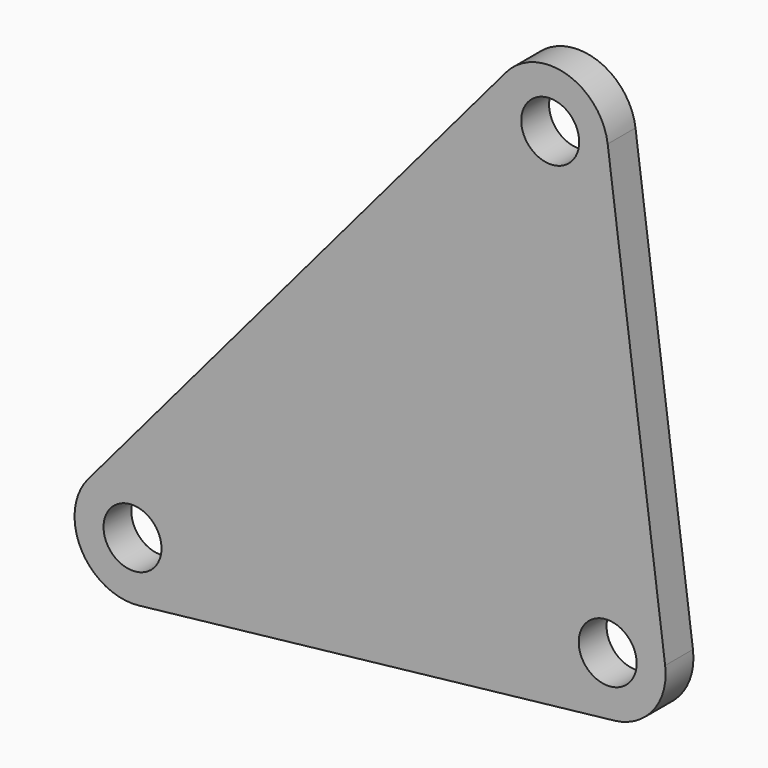
from build123d import *

# Parameters (mm, degrees)
F0_R     = 2.5
F1_DEPTH = 3


with BuildPart() as f1:
    # F0 (on Front) → F1 (new body)
    with BuildSketch(Plane.XZ):
        with BuildLine():
            ThreePointArc((0.557271, -4.968848), (3.935556, -3.084056), (4.957978, 0.646883))
            Line((4.957978, 0.646883), (0, 38.646883))
            ThreePointArc((0, 38.646883), (-3.546241, 42.796561), (-8.775027, 41.229572))
            Line((-8.775027, 41.229572), (-44.817049, -1.368698))
            ThreePointArc((-44.817049, -1.368698), (-45.411356, -6.951978), (-40.442729, -9.567118))
            Line((-40.442729, -9.567118), (0.557271, -4.968848))
        make_face()
        with Locations((-41, -4.59827)):
            Circle(F0_R, mode=Mode.SUBTRACT)
        Circle(F0_R, mode=Mode.SUBTRACT)
        with Locations((-4.957978, 38)):
            Circle(F0_R, mode=Mode.SUBTRACT)
    extrude(amount=F1_DEPTH)


solid = f1.part
